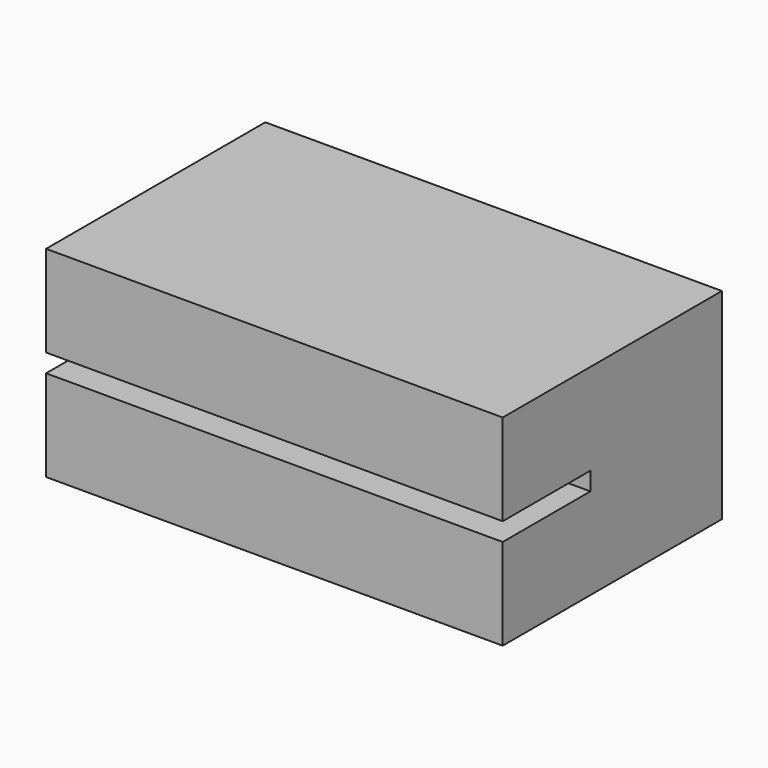
from build123d import *

# Parameters (mm, degrees)
F0_W     = 30
F0_H     = 30
F0_W_2   = 50
F1_DEPTH = 12
F2_W     = 12
F2_H     = 30
F2_H_2   = 12
F2_W_2   = 50
F3_DEPTH = 3.5
F4_W     = 50
F4_H     = 12
F4_W_2   = 12
F4_H_2   = 30
F4_H_3   = 18
F4_W_3   = 18
F5_DEPTH = 10
F6_DEPTH = 10
F7_W     = 30
F7_H     = 65.1035520434
F8_DEPTH = 25


with BuildPart() as f1:
    # F0 (on Top) → F1 (new body)
    with BuildSketch(Plane.XY):
        with Locations((15, -15)):
            Rectangle(F0_W, F0_H)
        with BuildLine():
            Line((0, 30), (0, 0))
            Line((0, 0), (30, 0))
            Line((30, 0), (16.1747587326, 13.8252412674))
            ThreePointArc((16.1747587326, 13.8252412674), (12.3110554274, 14.8605174478), (11.275779247, 18.724220753))
            Line((11.275779247, 18.724220753), (0, 30))
        make_face()
        with Locations((-25, 15)):
            Rectangle(F0_W_2, F0_H)
    extrude(amount=F1_DEPTH)

    # F2 (on face) → F3 (cut)
    with BuildSketch(Plane.XY.offset(12)):
        with Locations((6, -15)):
            Rectangle(F2_W, F2_H)
        with Locations((6, 6)):
            Rectangle(F2_W, F2_H_2)
        with Locations((-25, 6)):
            Rectangle(F2_W_2, F2_H_2)
    extrude(amount=-F3_DEPTH, mode=Mode.SUBTRACT)

    # F4 (on face) → F5 (join)
    with BuildSketch(Plane.XY.offset(12)):
        with Locations((-25, 6)):
            Rectangle(F4_W, F4_H)
        with Locations((6, -15)):
            Rectangle(F4_W_2, F4_H_2)
        with BuildLine():
            Line((11.275779247, 18.724220753), (0, 30))
            Line((0, 30), (0, 12))
            Line((0, 12), (12, 12))
            Line((12, 12), (12, 0))
            Line((12, 0), (30, 0))
            Line((30, 0), (16.1747587326, 13.8252412674))
            ThreePointArc((16.1747587326, 13.8252412674), (12.3110554274, 14.8605174478), (11.275779247, 18.724220753))
        make_face()
        with Locations((6, 6)):
            Rectangle(F4_W_2, F4_H)
        with Locations((-25, 21)):
            Rectangle(F4_W, F4_H_3)
        with Locations((21, -15)):
            Rectangle(F4_W_3, F4_H_2)
    extrude(amount=F5_DEPTH)

    # F0 (on Top) → F6 (join)
    with BuildSketch(Plane.XY):
        with Locations((-25, 15)):
            Rectangle(F0_W_2, F0_H)
        with BuildLine():
            Line((0, 30), (0, 0))
            Line((0, 0), (30, 0))
            Line((30, 0), (16.1747587326, 13.8252412674))
            ThreePointArc((16.1747587326, 13.8252412674), (12.3110554274, 14.8605174478), (11.275779247, 18.724220753))
            Line((11.275779247, 18.724220753), (0, 30))
        make_face()
        with Locations((15, -15)):
            Rectangle(F0_W, F0_H)
        with BuildLine():
            ThreePointArc((19.1394825522, 17.6889445726), (15.6615873211, 21.6547240181), (11.275779247, 18.724220753))
            Line((11.275779247, 18.724220753), (13.7252689898, 16.2747310102))
            Line((13.7252689898, 16.2747310102), (16.1747587326, 13.8252412674))
            ThreePointArc((16.1747587326, 13.8252412674), (18.3128959133, 15.2538988565), (19.1394825522, 17.6889445726))
        make_face()
        with BuildLine():
            ThreePointArc((17.1394825522, 17.6889445726), (15.9048494169, 15.8411855075), (13.7252689898, 16.2747310102))
            ThreePointArc((13.7252689898, 16.2747310102), (14.3741156874, 19.5367036376), (17.1394825522, 17.6889445726))
        make_face(mode=Mode.SUBTRACT)
        with BuildLine():
            Line((13.7252689898, 16.2747310102), (11.275779247, 18.724220753))
            ThreePointArc((11.275779247, 18.724220753), (12.3110554274, 14.8605174478), (16.1747587326, 13.8252412674))
            Line((16.1747587326, 13.8252412674), (13.7252689898, 16.2747310102))
        make_face()
    extrude(amount=F6_DEPTH)

    # F7 (on face) → F8 (cut)
    with BuildSketch(Plane.XY.offset(22)):
        with Locations((15, -2.5517760217)):
            Rectangle(F7_W, F7_H)
    extrude(amount=-F8_DEPTH, mode=Mode.SUBTRACT)


solid = f1.part
